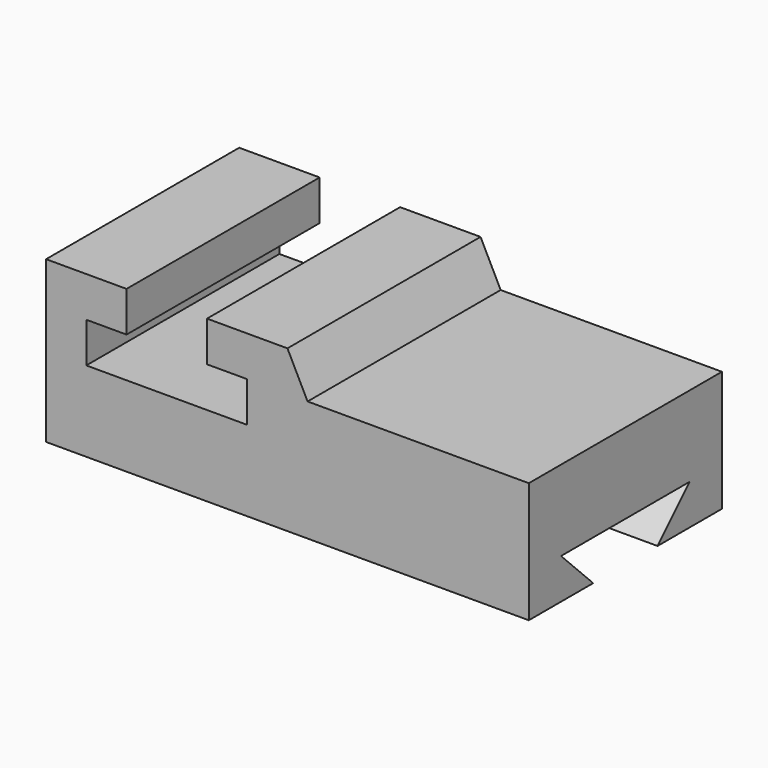
from build123d import *

# Parameters (mm, degrees)
F0_W     = 152.4
F0_H     = 50.8
F1_DEPTH = 76.2
F3_DEPTH = 76.2
F5_W     = 69.85
F5_H     = 12.7
F6_DEPTH = 76.2
F8_DEPTH = 76.2
F9_DEPTH = 152.4


with BuildPart() as f1:
    # F0 (on Front) → F1 (new body)
    with BuildSketch(Plane.XZ):
        with Locations((76.2, 25.4)):
            Rectangle(F0_W, F0_H)
    extrude(amount=-F1_DEPTH)

    # F2 (on face) → F3 (cut)
    with BuildSketch(Plane.XZ):
        Polygon((50.8, 50.8), (25.4, 50.8), (25.4, 38.1), (12.7, 38.1), (12.7, 25.4), (63.5, 25.4), (63.5, 38.1), (50.8, 38.1), align=None)
    extrude(amount=-F3_DEPTH, mode=Mode.SUBTRACT)

    # F5 (on face) → F6 (cut)
    with BuildSketch(Plane.XZ):
        with Locations((117.475, 44.45)):
            Rectangle(F5_W, F5_H)
    extrude(amount=-F6_DEPTH, mode=Mode.SUBTRACT)

    # F7 (on face) → F8 (cut)
    with BuildSketch(Plane.XZ):
        Polygon((76.2, 50.8), (82.55, 38.1), (82.55, 50.8), align=None)
    extrude(amount=-F8_DEPTH, mode=Mode.SUBTRACT)

    # F4 (on face) → F9 (cut)
    with BuildSketch(Plane.YZ.offset(152.4)):
        Polygon((12.7, 12.7), (25.4, 0), (50.8, 0), (63.5, 12.7), align=None)
    extrude(amount=-F9_DEPTH, mode=Mode.SUBTRACT)


solid = f1.part
